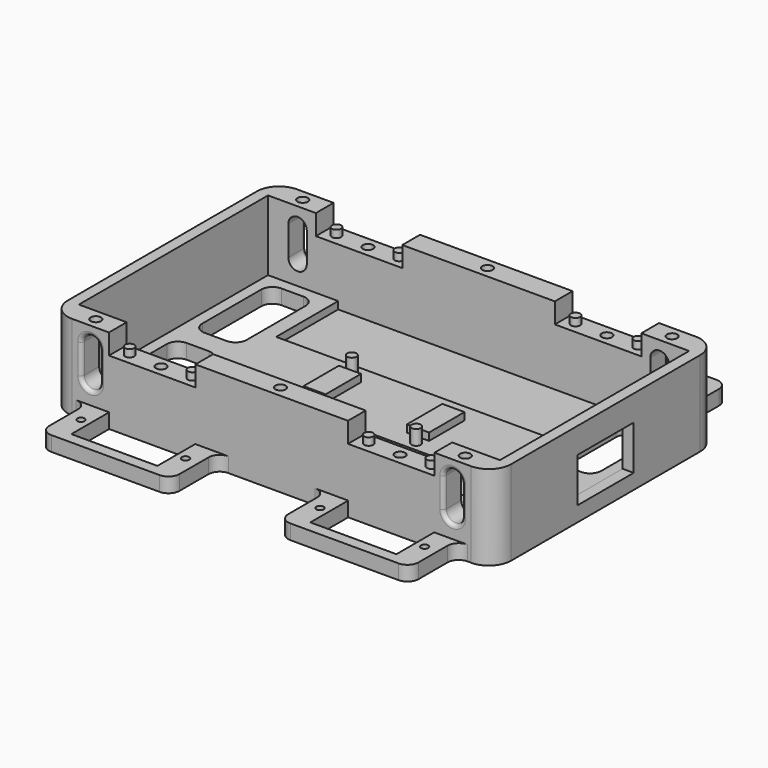
from build123d import *

# Parameters (mm, degrees)
SKETCH_R        = 1
SKETCH_W        = 23.3
SKETCH_H        = 12.8
PAD_DEPTH       = 4
SKETCH001_W     = 114
SKETCH001_H     = 64
PAD001_DEPTH    = 19
SKETCH002_W     = 23.4
SKETCH002_H     = 6
POCKET_DEPTH    = 5.5
SKETCH003_W     = 76
SKETCH003_H     = 21
POCKET001_DEPTH = 2
SKETCH004_W     = 19
SKETCH004_H     = 12
POCKET002_DEPTH = 5
SKETCH005_R     = 1.25
PAD002_DEPTH    = 4
SKETCH006_W     = 6
SKETCH006_H     = 12
PAD003_DEPTH    = 2
SKETCH007_R     = 1.25
PAD004_DEPTH    = 2
SKETCH008_R     = 1.4
POCKET003_DEPTH = 11
SKETCH009_R     = 1.4
POCKET004_DEPTH = 11
POCKET005_DEPTH = 5
SKETCH011_R     = 1.4
POCKET006_DEPTH = 11
POCKET007_DEPTH = 77
FILLET_R        = 1
FILLET001_R     = 1
FILLET002_R     = 1
FILLET003_R     = 1


with BuildPart() as part:
    # Sketch → Pad (new body)
    with BuildSketch(Plane.XY):
        with BuildLine():
            Line((-11.7, 38), (11.7, 38))
            ThreePointArc((11.7, 38), (13.82132, 38.87868), (14.7, 41))
            Line((14.7, 41), (14.7, 50.8))
            ThreePointArc((17.7, 53.8), (15.57868, 52.92132), (14.7, 50.8))
            Line((17.7, 53.8), (47, 53.8))
            ThreePointArc((50, 50.8), (49.12132, 52.92132), (47, 53.8))
            Line((50, 50.8), (50, 41))
            ThreePointArc((50, 41), (50.87868, 38.87868), (53, 38))
            Line((53, 38), (54, 38))
            ThreePointArc((60, 32), (58.242641, 36.242641), (54, 38))
            Line((60, 32), (60, -32))
            ThreePointArc((54, -38), (58.242641, -36.242641), (60, -32))
            Line((54, -38), (53, -38))
            ThreePointArc((53, -38), (50.87868, -38.87868), (50, -41))
            Line((50, -41), (50, -50.8))
            ThreePointArc((47, -53.8), (49.12132, -52.92132), (50, -50.8))
            Line((47, -53.8), (17.7, -53.8))
            ThreePointArc((14.7, -50.8), (15.57868, -52.92132), (17.7, -53.8))
            Line((14.7, -50.8), (14.7, -41))
            ThreePointArc((14.7, -41), (13.82132, -38.87868), (11.7, -38))
            Line((11.7, -38), (-11.7, -38))
            ThreePointArc((-11.7, -38), (-13.82132, -38.87868), (-14.7, -41))
            Line((-14.7, -41), (-14.7, -50.8))
            ThreePointArc((-17.7, -53.8), (-15.57868, -52.92132), (-14.7, -50.8))
            Line((-17.7, -53.8), (-47, -53.8))
            ThreePointArc((-50, -50.8), (-49.12132, -52.92132), (-47, -53.8))
            Line((-50, -50.8), (-50, -41))
            ThreePointArc((-50, -41), (-50.87868, -38.87868), (-53, -38))
            Line((-53, -38), (-54, -38))
            ThreePointArc((-60, -32), (-58.242641, -36.242641), (-54, -38))
            Line((-60, -32), (-60, 32))
            ThreePointArc((-54, 38), (-58.242641, 36.242641), (-60, 32))
            Line((-54, 38), (-53, 38))
            ThreePointArc((-53, 38), (-50.87868, 38.87868), (-50, 41))
            Line((-50, 41), (-50, 50.8))
            ThreePointArc((-47, 53.8), (-49.12132, 52.92132), (-50, 50.8))
            Line((-47, 53.8), (-17.7, 53.8))
            ThreePointArc((-14.7, 50.8), (-15.57868, 52.92132), (-17.7, 53.8))
            Line((-14.7, 50.8), (-14.7, 41))
            ThreePointArc((-14.7, 41), (-13.82132, 38.87868), (-11.7, 38))
        make_face()
        with Locations((-46.5, 44.4)):
            Circle(SKETCH_R, mode=Mode.SUBTRACT)
        with Locations((-18.2, 44.4)):
            Circle(SKETCH_R, mode=Mode.SUBTRACT)
        with Locations((18.2, 44.4)):
            Circle(SKETCH_R, mode=Mode.SUBTRACT)
        with Locations((46.5, 44.4)):
            Circle(SKETCH_R, mode=Mode.SUBTRACT)
        with Locations((-46.5, -44.4)):
            Circle(SKETCH_R, mode=Mode.SUBTRACT)
        with Locations((-18.2, -44.4)):
            Circle(SKETCH_R, mode=Mode.SUBTRACT)
        with Locations((18.2, -44.4)):
            Circle(SKETCH_R, mode=Mode.SUBTRACT)
        with Locations((46.5, -44.4)):
            Circle(SKETCH_R, mode=Mode.SUBTRACT)
        with Locations((-32.35, 44.4)):
            Rectangle(SKETCH_W, SKETCH_H, mode=Mode.SUBTRACT)
        with Locations((32.35, 44.4)):
            Rectangle(SKETCH_W, SKETCH_H, mode=Mode.SUBTRACT)
        with Locations((32.35, -44.4)):
            Rectangle(SKETCH_W, SKETCH_H, mode=Mode.SUBTRACT)
        with Locations((-32.35, -44.4)):
            Rectangle(SKETCH_W, SKETCH_H, mode=Mode.SUBTRACT)
    extrude(amount=PAD_DEPTH)

    # Sketch001 (on Face66 of Pad) → Pad001 (join)
    with BuildSketch(Plane.XY.offset(4)):
        with BuildLine():
            Line((60, -32), (60, 32))
            ThreePointArc((60, 32), (58.242641, 36.242641), (54, 38))
            Line((54, 38), (-54, 38))
            ThreePointArc((-54, 38), (-58.242641, 36.242641), (-60, 32))
            Line((-60, 32), (-60, -32))
            ThreePointArc((-60, -32), (-58.242641, -36.242641), (-54, -38))
            Line((-54, -38), (54, -38))
            ThreePointArc((54, -38), (58.242641, -36.242641), (60, -32))
        make_face()
        Rectangle(SKETCH001_W, SKETCH001_H, mode=Mode.SUBTRACT)
    extrude(amount=PAD001_DEPTH)

    # Sketch002 (on Face78 of Pad001) → Pocket (cut)
    with BuildSketch(Plane.XY.offset(23)):
        with Locations((-32.35, 35)):
            Rectangle(SKETCH002_W, SKETCH002_H)
        with Locations((32.35, 35)):
            Rectangle(SKETCH002_W, SKETCH002_H)
        with Locations((-32.35, -35)):
            Rectangle(SKETCH002_W, SKETCH002_H)
        with Locations((32.35, -35)):
            Rectangle(SKETCH002_W, SKETCH002_H)
    extrude(amount=-POCKET_DEPTH, mode=Mode.SUBTRACT)

    # Sketch003 (on Face98 of Pocket) → Pocket001 (cut)
    with BuildSketch(Plane.XY.offset(4)):
        with Locations((0, 21.5)):
            Rectangle(SKETCH003_W, SKETCH003_H)
        with Locations((0, -21.5)):
            Rectangle(SKETCH003_W, SKETCH003_H)
    extrude(amount=-POCKET001_DEPTH, mode=Mode.SUBTRACT)

    # Sketch004 (on Face70 of Pocket001) → Pocket002 (cut)
    with BuildSketch(Plane.YZ.offset(60)):
        with Locations((0, 10.07)):
            Rectangle(SKETCH004_W, SKETCH004_H)
    extrude(amount=-POCKET002_DEPTH, mode=Mode.SUBTRACT)

    # Sketch005 (on Face102 of Pocket002) → Pad002 (join)
    with BuildSketch(Plane.XY.offset(4)):
        with Locations((15.5, -8.5)):
            Circle(SKETCH005_R)
        with Locations((-15.5, 8.5)):
            Circle(SKETCH005_R)
    extrude(amount=PAD002_DEPTH)

    # Sketch006 (on Face102 of Pad002) → Pad003 (join)
    with BuildSketch(Plane.XY.offset(4)):
        with Locations((-14, 0)):
            Rectangle(SKETCH006_W, SKETCH006_H)
        with Locations((14, 0)):
            Rectangle(SKETCH006_W, SKETCH006_H)
    extrude(amount=PAD003_DEPTH)

    # Sketch007 (on Face80 of Pad003) → Pad004 (join)
    with BuildSketch(Plane.XY.offset(17.5)):
        with Locations((-40.85, 35)):
            Circle(SKETCH007_R)
        with Locations((-23.85, 35)):
            Circle(SKETCH007_R)
        with Locations((23.85, 35)):
            Circle(SKETCH007_R)
        with Locations((40.85, 35)):
            Circle(SKETCH007_R)
        with Locations((-40.85, -35)):
            Circle(SKETCH007_R)
        with Locations((-23.85, -35)):
            Circle(SKETCH007_R)
        with Locations((23.85, -35)):
            Circle(SKETCH007_R)
        with Locations((40.85, -35)):
            Circle(SKETCH007_R)
    extrude(amount=PAD004_DEPTH)

    # Sketch008 (on Face80 of Pad004) → Pocket003 (cut)
    with BuildSketch(Plane.XY.offset(17.5)):
        with Locations((-32.35, 35)):
            Circle(SKETCH008_R)
        with Locations((32.35, 35)):
            Circle(SKETCH008_R)
        with Locations((-32.35, -35)):
            Circle(SKETCH008_R)
        with Locations((32.35, -35)):
            Circle(SKETCH008_R)
    extrude(amount=-POCKET003_DEPTH, mode=Mode.SUBTRACT)

    # Sketch009 (on Face82 of Pocket003) → Pocket004 (cut)
    with BuildSketch(Plane.XY.offset(23)):
        with Locations((-50, 35)):
            Circle(SKETCH009_R)
        with Locations((50, 35)):
            Circle(SKETCH009_R)
        with Locations((-50, -35)):
            Circle(SKETCH009_R)
        with Locations((50, -35)):
            Circle(SKETCH009_R)
        with Locations((0, -35)):
            Circle(SKETCH009_R)
        with Locations((0, 35)):
            Circle(SKETCH009_R)
    extrude(amount=-POCKET004_DEPTH, mode=Mode.SUBTRACT)

    # Sketch010 (on Face120 of Pocket004) → Pocket005 (cut)
    with BuildSketch(Plane.XY.offset(4)):
        with BuildLine():
            ThreePointArc((-51, 29), (-53.12132, 28.12132), (-54, 26))
            Line((-54, 6), (-54, 26))
            ThreePointArc((-54, 6), (-53.12132, 3.87868), (-51, 3))
            Line((-45, 3), (-51, 3))
            ThreePointArc((-45, 3), (-42.87868, 3.87868), (-42, 6))
            Line((-42, 26), (-42, 6))
            ThreePointArc((-42, 26), (-42.87868, 28.12132), (-45, 29))
            Line((-51, 29), (-45, 29))
        make_face()
        with BuildLine():
            ThreePointArc((-51, -3), (-53.12132, -3.87868), (-54, -6))
            Line((-54, -26), (-54, -6))
            ThreePointArc((-54, -26), (-53.12132, -28.12132), (-51, -29))
            Line((-45, -29), (-51, -29))
            ThreePointArc((-45, -29), (-42.87868, -28.12132), (-42, -26))
            Line((-42, -6), (-42, -26))
            ThreePointArc((-42, -6), (-42.87868, -3.87868), (-45, -3))
            Line((-51, -3), (-45, -3))
        make_face()
        with BuildLine():
            ThreePointArc((45, 29), (42.87868, 28.12132), (42, 26))
            Line((42, 6), (42, 26))
            ThreePointArc((42, 6), (42.87868, 3.87868), (45, 3))
            Line((51, 3), (45, 3))
            ThreePointArc((51, 3), (53.12132, 3.87868), (54, 6))
            Line((54, 26), (54, 6))
            ThreePointArc((54, 26), (53.12132, 28.12132), (51, 29))
            Line((45, 29), (51, 29))
        make_face()
        with BuildLine():
            ThreePointArc((45, -3), (42.87868, -3.87868), (42, -6))
            Line((42, -26), (42, -6))
            ThreePointArc((42, -26), (42.87868, -28.12132), (45, -29))
            Line((51, -29), (45, -29))
            ThreePointArc((51, -29), (53.12132, -28.12132), (54, -26))
            Line((54, -6), (54, -26))
            ThreePointArc((54, -6), (53.12132, -3.87868), (51, -3))
            Line((45, -3), (51, -3))
        make_face()
    extrude(amount=-POCKET005_DEPTH, mode=Mode.SUBTRACT)

    # Sketch011 (on Face4 of Pocket005) → Pocket006 (cut)
    with BuildSketch(Plane(origin=(0, 0, 0), x_dir=(1, 0, 0), z_dir=(0, 0, -1))):
        with Locations((-27, 35)):
            Circle(SKETCH011_R)
        with Locations((27, 35)):
            Circle(SKETCH011_R)
        with Locations((-27, -35)):
            Circle(SKETCH011_R)
        with Locations((27, -35)):
            Circle(SKETCH011_R)
    extrude(amount=-POCKET006_DEPTH, mode=Mode.SUBTRACT)

    # Sketch012 (on Face108 of Pocket006) → Pocket007 (cut)
    with BuildSketch(Plane.XZ.offset(38)):
        with BuildLine():
            ThreePointArc((51.5, 18), (49, 20.5), (46.5, 18))
            Line((46.5, 18), (46.5, 10))
            ThreePointArc((46.5, 10), (49, 7.5), (51.5, 10))
            Line((51.5, 10), (51.5, 18))
        make_face()
        with BuildLine():
            ThreePointArc((-46.5, 18), (-49, 20.5), (-51.5, 18))
            Line((-51.5, 18), (-51.5, 10))
            ThreePointArc((-51.5, 10), (-49, 7.5), (-46.5, 10))
            Line((-46.5, 10), (-46.5, 18))
        make_face()
    extrude(amount=-POCKET007_DEPTH, mode=Mode.SUBTRACT)

    # Fillet
    fillet_edges = [part.edges().sort_by_distance(p)[0] for p in [
        (51.5, -38, 14),
    ]]
    fillet(fillet_edges, radius=FILLET_R)

    # Fillet001
    fillet001_edges = [part.edges().sort_by_distance(p)[0] for p in [
        (-46.5, -38, 14),
    ]]
    fillet(fillet001_edges, radius=FILLET001_R)

    # Fillet002
    fillet002_edges = [part.edges().sort_by_distance(p)[0] for p in [
        (51.5, 38, 14),
    ]]
    fillet(fillet002_edges, radius=FILLET002_R)

    # Fillet003
    fillet003_edges = [part.edges().sort_by_distance(p)[0] for p in [
        (-51.5, 38, 14),
    ]]
    fillet(fillet003_edges, radius=FILLET003_R)


solid = part.part
